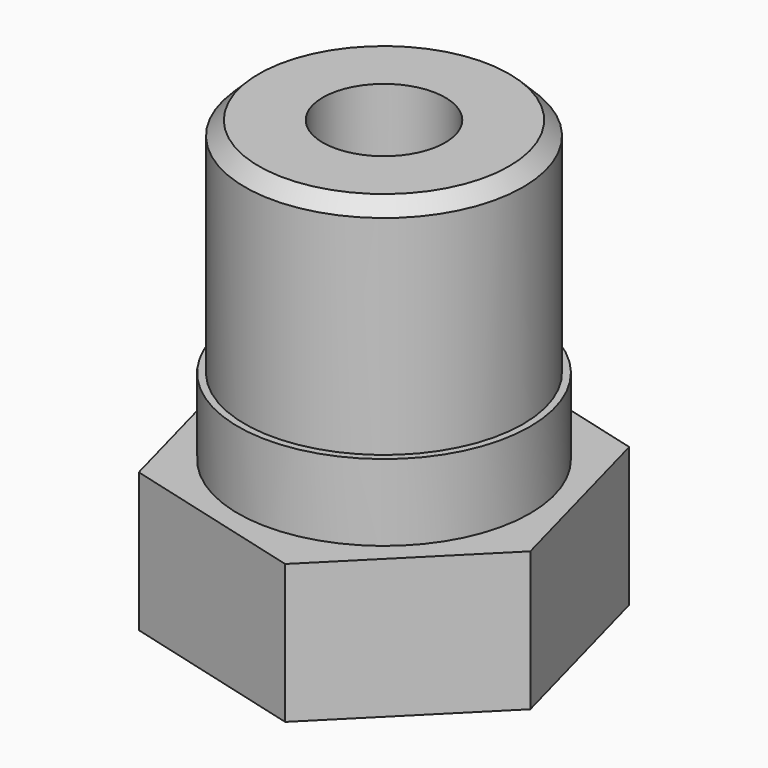
from build123d import *

# Parameters (mm, degrees)
F1_DEPTH = 10
F2_R     = 10.5
F3_DEPTH = 5.5
F4_R     = 10
F5_DEPTH = 16
F6_SIZE  = 1
F8_D     = 8.8


with BuildPart() as f1:
    # F0 (on Top) → F1 (new body)
    with BuildSketch(Plane.XY):
        Polygon((3.5951366344, -13.3818904711), (13.3866254158, -3.5774655801), (9.7914887815, 9.804424891), (-3.5951366344, 13.3818904711), (-13.3866254158, 3.5774655801), (-9.7914887815, -9.804424891), align=None)
    extrude(amount=F1_DEPTH)

    # F2 (on face) → F3 (join)
    with BuildSketch(Plane.XY.offset(10)):
        Circle(F2_R)
    extrude(amount=F3_DEPTH)

    # F4 (on face) → F5 (join)
    with BuildSketch(Plane.XY.offset(15.5)):
        Circle(F4_R)
    extrude(amount=F5_DEPTH)

    # F6
    f6_edges = [f1.edges().sort_by_distance(p)[0] for p in [
        (-10, 0, 31.5),
    ]]
    chamfer(f6_edges, length=F6_SIZE)

    # F8 (through all)
    with Locations(Plane(origin=(0, 0, 0), x_dir=(1, 0, 0), z_dir=(0, 0, -1))):
        with Locations((0, 0)):
            Hole(F8_D / 2)


solid = f1.part
